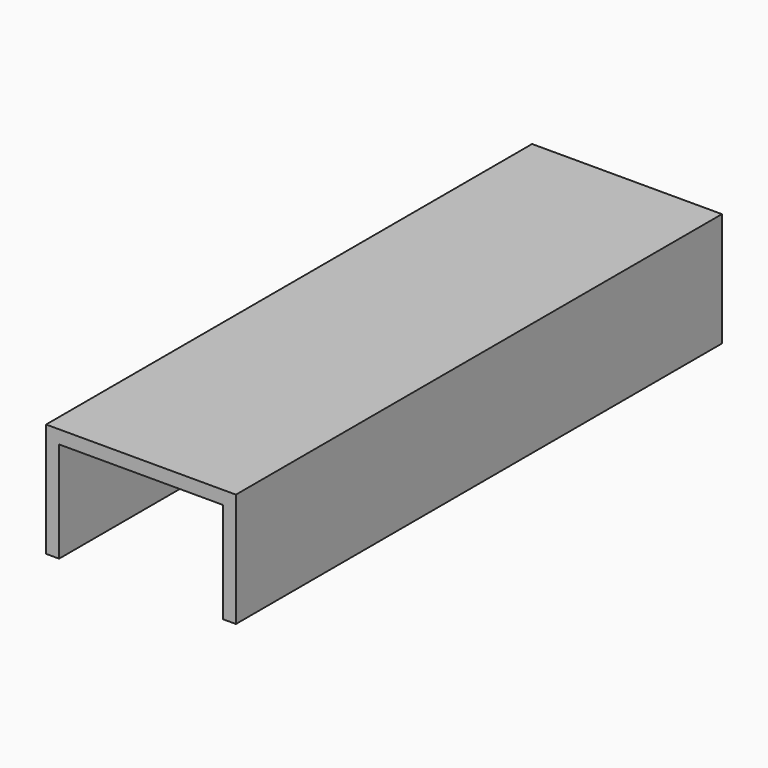
from build123d import *

# Parameters (mm, degrees)
F0_W     = 127
F0_H     = 406.4
F1_DEPTH = 76.2
F3_DEPTH = 471.424


with BuildPart() as f1:
    # F0 (on Top) → F1 (new body)
    with BuildSketch(Plane.XY):
        with Locations((-24.600416, -2.098624)):
            Rectangle(F0_W, F0_H)
    extrude(amount=F1_DEPTH)

    # F2 (on face) → F3 (cut)
    with BuildSketch(Plane.XZ.offset(205.298624)):
        Polygon((-79.399958, 67.308418), (-79.399958, 0), (-24.600416, 0), (30.199126, 0), (30.199126, 67.308418), (-24.600416, 67.308418), align=None)
    extrude(amount=-F3_DEPTH, mode=Mode.SUBTRACT)


solid = f1.part
